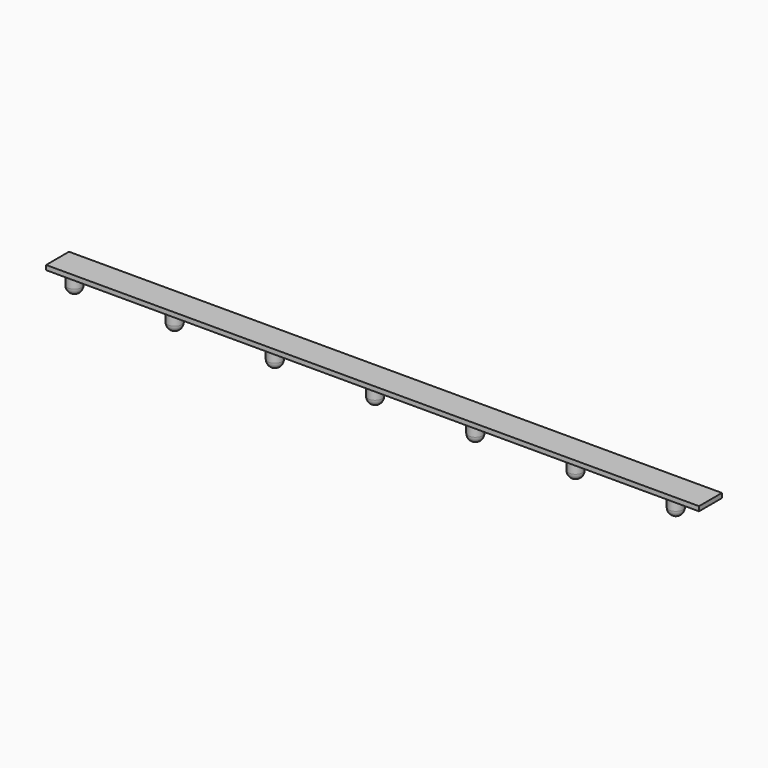
from build123d import *

# Parameters (mm, degrees)
F0_W     = 228
F0_H     = 10
F1_DEPTH = 1.6
F2_R     = 2.5
F3_DEPTH = 7.5
F4_R     = 2.5


with BuildPart() as f1:
    # F0 (on Top) → F1 (new body)
    with BuildSketch(Plane.XY):
        Rectangle(F0_W, F0_H)
    extrude(amount=F1_DEPTH)

    # F2 (on face) → F3 (join)
    with BuildSketch(Plane(origin=(0, 0, 0), x_dir=(1, 0, 0), z_dir=(0, 0, -1))):
        with Locations((-108.5, -0.5)):
            Circle(F2_R)
        with Locations((-73.5, -0.5)):
            Circle(F2_R)
        with Locations((-38.5, -0.5)):
            Circle(F2_R)
        with Locations((-3.5, -0.5)):
            Circle(F2_R)
        with Locations((31.5, -0.5)):
            Circle(F2_R)
        with Locations((66.5, -0.5)):
            Circle(F2_R)
        with Locations((101.5, -0.5)):
            Circle(F2_R)
    extrude(amount=F3_DEPTH)

    # F4
    f4_edges = [f1.edges().sort_by_distance(p)[0] for p in [
        (-111, 0.5, -7.5),
        (-76, 0.5, -7.5),
        (-41, 0.5, -7.5),
        (-6, 0.5, -7.5),
        (29, 0.5, -7.5),
        (64, 0.5, -7.5),
        (99, 0.5, -7.5),
    ]]
    fillet(f4_edges, radius=F4_R)


solid = f1.part
